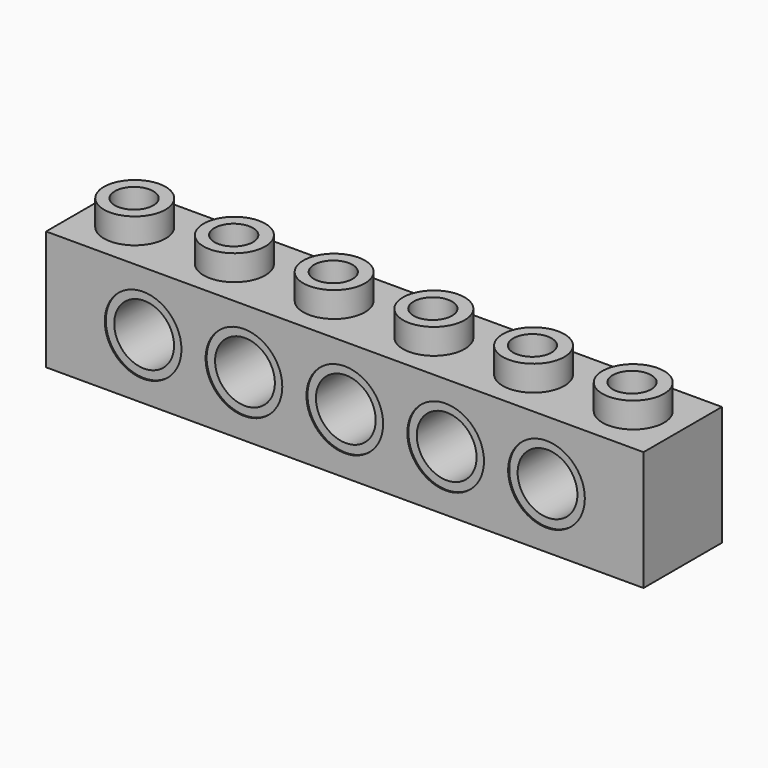
from build123d import *

# Parameters (mm, degrees)
F0_W          = 47.7012
F0_H          = 9.5504
F1_DEPTH      = 7.8232
F2_W          = 22.3901
F2_H          = 4.9022
F3_DEPTH      = 4.7762
F3_DEPTH_BACK = 4.572
F5_START      = 4.6573948
F4_R          = 2.4638
F5_DEPTH      = 2.1498052
F7_R          = 1.5367
F8_DEPTH      = 154.40653
F9_R          = 3.0607
F10_DEPTH     = 9.13976
F12_START     = 0.10414
F11_R         = 3.0607
F11_R_2       = 2.3876
F12_DEPTH     = 7.61746
F14_R         = 1.5621
F15_DEPTH     = 1.67573


with BuildPart() as f1:
    # F0 (on Front) → F1 (new body)
    with BuildSketch(Plane.XZ):
        Rectangle(F0_W, F0_H)
    extrude(amount=F1_DEPTH)

    # F2 (on Top) → F3 (cut, two sides)
    with BuildSketch(Plane.XY) as f3_sk:
        with Locations((-11.19505, -3.9116)):
            Rectangle(F2_W, F2_H)
        with Locations((11.19505, -3.9116)):
            Rectangle(F2_W, F2_H)
    extrude(amount=-F3_DEPTH, mode=Mode.SUBTRACT)
    extrude(f3_sk.sketch, amount=F3_DEPTH_BACK, mode=Mode.SUBTRACT)

    # F4 (on Top) → F5 (join)
    with BuildSketch(Plane.XY.offset(F5_START)):
        with Locations((-19.9009, -3.9116)):
            Circle(F4_R)
        with Locations((-11.94054, -3.9116)):
            Circle(F4_R)
        with Locations((-3.98018, -3.9116)):
            Circle(F4_R)
        with Locations((3.98018, -3.9116)):
            Circle(F4_R)
        with Locations((11.94054, -3.9116)):
            Circle(F4_R)
        with Locations((19.9009, -3.9116)):
            Circle(F4_R)
    extrude(amount=F5_DEPTH)

    # F7 (on offset) → F8 (cut)
    with BuildSketch(Plane.XY.offset(159.2072)):
        with Locations((19.8267276498, -3.9447140065)):
            Circle(F7_R)
        with Locations((11.8765276498, -3.9447140065)):
            Circle(F7_R)
        with Locations((3.9263276498, -3.9447140065)):
            Circle(F7_R)
        with Locations((-4.0238723502, -3.9447140065)):
            Circle(F7_R)
        with Locations((-11.9740723502, -3.9447140065)):
            Circle(F7_R)
        with Locations((-19.9242723502, -3.9447140065)):
            Circle(F7_R)
    extrude(amount=-F8_DEPTH, mode=Mode.SUBTRACT)

    # F9 (on Front) → F10 (cut)
    with BuildSketch(Plane.XZ):
        Circle(F9_R)
        with Locations((8.0518, 0)):
            Circle(F9_R)
        with Locations((16.1036, 0)):
            Circle(F9_R)
        with Locations((-8.0518, 0)):
            Circle(F9_R)
        with Locations((-16.1036, 0)):
            Circle(F9_R)
    extrude(amount=F10_DEPTH, mode=Mode.SUBTRACT)

    # F11 (on Front) → F12 (join)
    with BuildSketch(Plane.XZ.offset(F12_START)):
        Circle(F11_R)
        Circle(F11_R_2, mode=Mode.SUBTRACT)
        with Locations((8.0518, 0)):
            Circle(F11_R)
        with Locations((8.0518, 0)):
            Circle(F11_R_2, mode=Mode.SUBTRACT)
        with Locations((16.1036, 0)):
            Circle(F11_R)
        with Locations((16.1036, 0)):
            Circle(F11_R_2, mode=Mode.SUBTRACT)
        with Locations((-8.0518, 0)):
            Circle(F11_R)
        with Locations((-8.0518, 0)):
            Circle(F11_R_2, mode=Mode.SUBTRACT)
        with Locations((-16.1036, 0)):
            Circle(F11_R)
        with Locations((-16.1036, 0)):
            Circle(F11_R_2, mode=Mode.SUBTRACT)
    extrude(amount=F12_DEPTH)


with BuildPart() as f15:
    # F14 (on offset) → F15 (new body)
    with BuildSketch(Plane(origin=(0, 0, -4.7752), x_dir=(1, 0, 0), z_dir=(0, 0, -1))):
        with Locations((0, 3.9116)):
            Circle(F14_R)
    extrude(amount=-F15_DEPTH)


with BuildPart() as f15b:
    # F14 (on offset) → F15, piece 2 (new body)
    with BuildSketch(Plane(origin=(0, 0, -4.7752), x_dir=(1, 0, 0), z_dir=(0, 0, -1))):
        with Locations((8.0518, 3.9116)):
            Circle(F14_R)
    extrude(amount=-F15_DEPTH)


with BuildPart() as f15c:
    # F14 (on offset) → F15, piece 3 (new body)
    with BuildSketch(Plane(origin=(0, 0, -4.7752), x_dir=(1, 0, 0), z_dir=(0, 0, -1))):
        with Locations((16.1036, 3.9116)):
            Circle(F14_R)
    extrude(amount=-F15_DEPTH)


with BuildPart() as f15d:
    # F14 (on offset) → F15, piece 4 (new body)
    with BuildSketch(Plane(origin=(0, 0, -4.7752), x_dir=(1, 0, 0), z_dir=(0, 0, -1))):
        with Locations((-8.0518, 3.9116)):
            Circle(F14_R)
    extrude(amount=-F15_DEPTH)


with BuildPart() as f15e:
    # F14 (on offset) → F15, piece 5 (new body)
    with BuildSketch(Plane(origin=(0, 0, -4.7752), x_dir=(1, 0, 0), z_dir=(0, 0, -1))):
        with Locations((-16.1036, 3.9116)):
            Circle(F14_R)
    extrude(amount=-F15_DEPTH)


solid = Compound([f1.part, f15.part, f15b.part, f15c.part, f15d.part, f15e.part])
